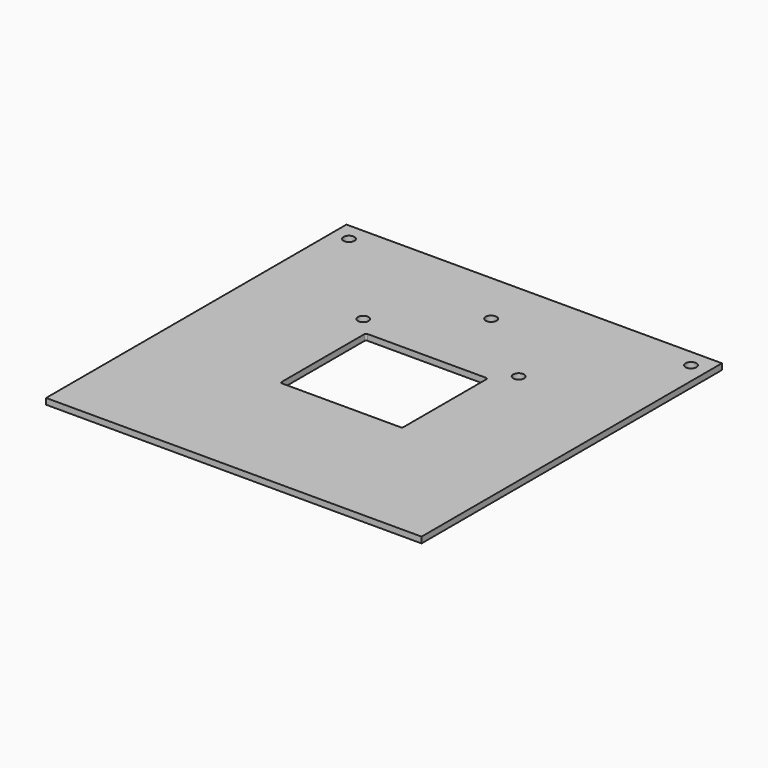
from build123d import *

# Parameters (mm, degrees)
F0_W     = 1000
F0_H     = 1000
F0_R     = 14.5
F1_DEPTH = 16


with BuildPart() as f1:
    # F0 (on Top) → F1 (new body)
    with BuildSketch(Plane.XY):
        with Locations((500, 500)):
            Rectangle(F0_W, F0_H)
        with Locations((293, 689.637037)):
            Circle(F0_R, mode=Mode.SUBTRACT)
        with Locations((44.5, 952.862963)):
            Circle(F0_R, mode=Mode.SUBTRACT)
        with BuildLine():
            Line((342.5, 642.5), (657.5, 642.5))
            ThreePointArc((657.5, 642.5), (661.035534, 641.035534), (662.5, 637.5))
            Line((662.5, 637.5), (662.5, 362.5))
            ThreePointArc((662.5, 362.5), (661.035534, 358.964466), (657.5, 357.5))
            Line((657.5, 357.5), (342.5, 357.5))
            ThreePointArc((342.5, 357.5), (338.964466, 358.964466), (337.5, 362.5))
            Line((337.5, 362.5), (337.5, 637.5))
            ThreePointArc((337.5, 637.5), (338.964466, 641.035534), (342.5, 642.5))
        make_face(mode=Mode.SUBTRACT)
        with Locations((707, 689.637037)):
            Circle(F0_R, mode=Mode.SUBTRACT)
        with Locations((500, 856.718037)):
            Circle(F0_R, mode=Mode.SUBTRACT)
        with Locations((955.5, 952.862963)):
            Circle(F0_R, mode=Mode.SUBTRACT)
    extrude(amount=F1_DEPTH)


solid = f1.part
